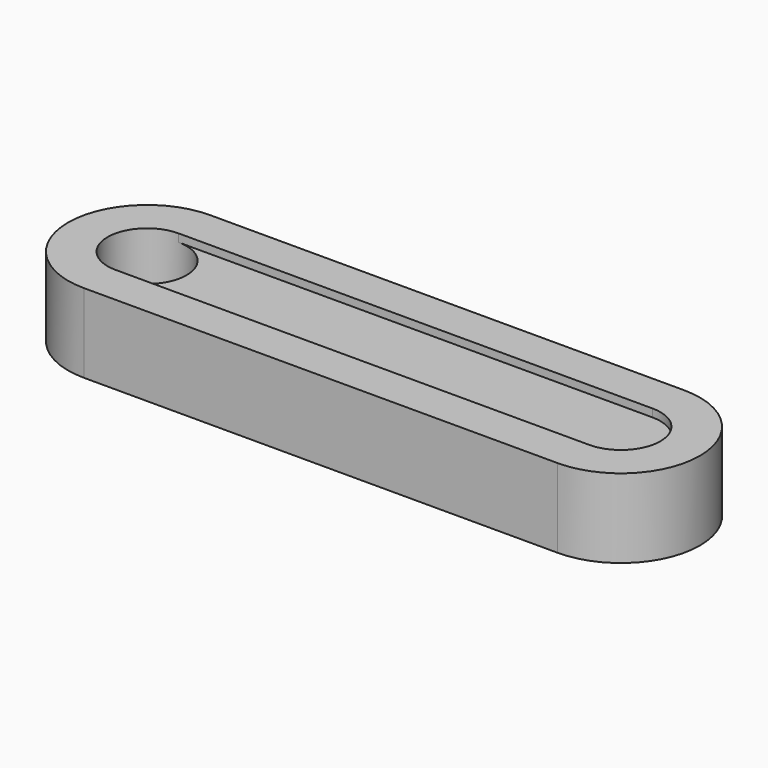
from build123d import *

# Parameters (mm, degrees)
F1_DEPTH = 4
F2_DEPTH = 5


with BuildPart() as f1:
    # F0 (on Top) → F1 (new body, symmetric)
    with BuildSketch(Plane.XY):
        with BuildLine():
            Line((-23.981852, -5), (36.018148, -5))
            ThreePointArc((36.018148, -5), (41.018148, 0), (36.018148, 5))
            Line((36.018148, 5), (-23.981852, 5))
            ThreePointArc((-23.981852, 5), (-18.981852, 0), (-23.981852, -5))
        make_face()
    extrude(amount=F1_DEPTH, both=True)

    # F0 (on Top) → F2 (join, symmetric)
    with BuildSketch(Plane.XY):
        with BuildLine():
            Line((-23.981852, -5), (36.018148, -5))
            ThreePointArc((36.018148, -5), (41.018148, 0), (36.018148, 5))
            Line((36.018148, 5), (-23.981852, 5))
            ThreePointArc((-23.981852, 5), (-18.981852, 0), (-23.981852, -5))
        make_face()
        with BuildLine():
            ThreePointArc((36.018148, -10), (46.018148, 0), (36.018148, 10))
            Line((36.018148, 10), (-23.981852, 10))
            ThreePointArc((-23.981852, 10), (-33.981852, 0), (-23.981852, -10))
            Line((-23.981852, -10), (36.018148, -10))
        make_face()
        with BuildLine():
            ThreePointArc((36.018148, 5), (41.018148, 0), (36.018148, -5))
            Line((36.018148, -5), (-23.981852, -5))
            ThreePointArc((-23.981852, -5), (-28.981852, 0), (-23.981852, 5))
            Line((-23.981852, 5), (36.018148, 5))
        make_face(mode=Mode.SUBTRACT)
    extrude(amount=F2_DEPTH, both=True)


solid = f1.part
